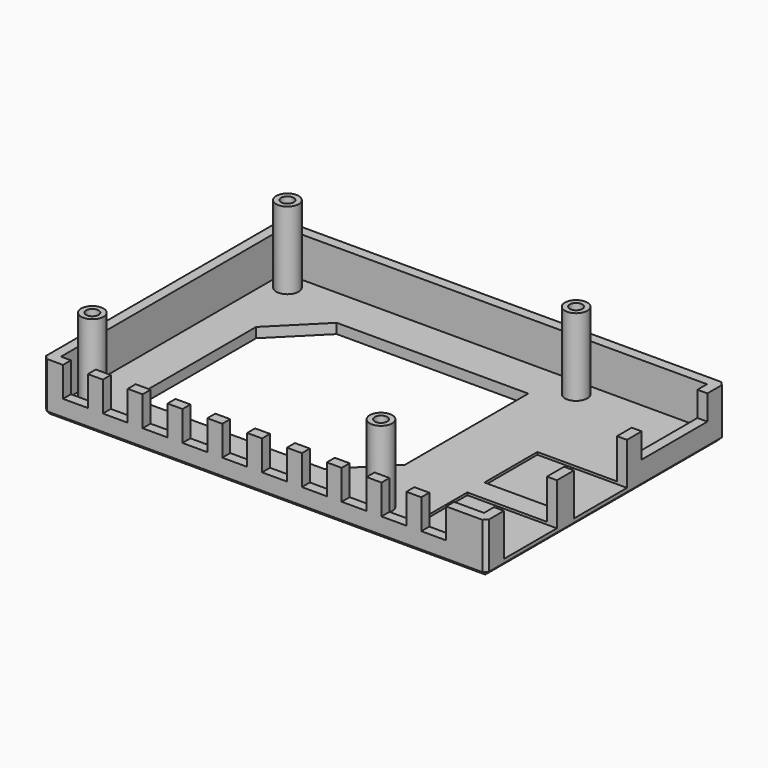
from build123d import *

# Parameters (mm, degrees)
F0_W      = 89
F0_H      = 60
F0_W_2    = 85
F0_H_2    = 56
F1_DEPTH  = 10
F2_DEPTH  = 2
F3_W      = 13.3
F3_H      = 8.5
F3_W_2    = 16.5
F3_H_2    = 5
F4_DEPTH  = 18
F5_SIZE   = 0.75
F6_R      = 2.25
F6_R_2    = 1.25
F7_DEPTH  = 17.5
F8_DEPTH  = 13.5
F9_W      = 47.5
F9_H      = 40
F10_DEPTH = 25
F11_SIZE  = 9
F12_W     = 5
F12_H     = 6
F13_DEPTH = 2


with BuildPart() as f1:
    # F0 (on Top) → F1 (new body)
    with BuildSketch(Plane.XY):
        Rectangle(F0_W, F0_H)
        Rectangle(F0_W_2, F0_H_2, mode=Mode.SUBTRACT)
    extrude(amount=F1_DEPTH)

    # F0 (on Top) → F2 (join)
    with BuildSketch(Plane.XY):
        Rectangle(F0_W_2, F0_H_2)
    extrude(amount=F2_DEPTH)

    # F3 (on face) → F4 (cut)
    with BuildSketch(Plane.YZ.offset(44.5)):
        with Locations((-18.85, 5.75)):
            Rectangle(F3_W, F3_H)
        with Locations((-1.25, 5.75)):
            Rectangle(F3_W, F3_H)
        with Locations((17.35, 7.5)):
            Rectangle(F3_W_2, F3_H_2)
    extrude(amount=-F4_DEPTH, mode=Mode.SUBTRACT)

    # F5
    f5_edges = [f1.edges().sort_by_distance(p)[0] for p in [
        (44.5, 0, 0),
        (0, 30, 0),
        (-44.5, 0, 0),
        (0, -30, 0),
        (44.5, -30, 5),
        (-44.5, -30, 5),
        (-44.5, 30, 5),
        (44.5, 30, 5),
    ]]
    chamfer(f5_edges, length=F5_SIZE)

    # F6 (on face) → F7 (join)
    with BuildSketch(Plane.XY):
        with Locations((-39, -24.5)):
            Circle(F6_R)
        with Locations((-39, -24.5)):
            Circle(F6_R_2, mode=Mode.SUBTRACT)
        with Locations((19, -24.5)):
            Circle(F6_R)
        with Locations((19, -24.5)):
            Circle(F6_R_2, mode=Mode.SUBTRACT)
        with Locations((19, 24.5)):
            Circle(F6_R)
        with Locations((19, 24.5)):
            Circle(F6_R_2, mode=Mode.SUBTRACT)
        with Locations((-39, 24.5)):
            Circle(F6_R)
        with Locations((-39, 24.5)):
            Circle(F6_R_2, mode=Mode.SUBTRACT)
    extrude(amount=F7_DEPTH)

    # F8 (add): faces of the model
    f8_faces = [f1.faces().sort_by_distance(p)[0] for p in [
        (-39, 24.5, 2),
        (-39, -24.5, 2),
        (19, 24.5, 2),
        (19, -24.5, 2),
    ]]
    extrude(f8_faces, amount=F8_DEPTH)

    # F9 (on face) → F10 (cut)
    with BuildSketch(Plane.XY):
        with Locations((-10.75, 0)):
            Rectangle(F9_W, F9_H)
    extrude(amount=F10_DEPTH, mode=Mode.SUBTRACT)

    # F11
    f11_edges = [f1.edges().sort_by_distance(p)[0] for p in [
        (13, -20, 1),
        (-34.5, 20, 1),
    ]]
    chamfer(f11_edges, length=F11_SIZE)

    # F12 (on face) → F13 (cut)
    with BuildSketch(Plane.XZ.offset(30)):
        with Locations((34, 7)):
            Rectangle(F12_W, F12_H)
        with Locations((26, 7)):
            Rectangle(F12_W, F12_H)
        with Locations((18, 7)):
            Rectangle(F12_W, F12_H)
        with Locations((10, 7)):
            Rectangle(F12_W, F12_H)
        with Locations((2, 7)):
            Rectangle(F12_W, F12_H)
        with Locations((-6, 7)):
            Rectangle(F12_W, F12_H)
        with Locations((-14, 7)):
            Rectangle(F12_W, F12_H)
        with Locations((-22, 7)):
            Rectangle(F12_W, F12_H)
        with Locations((-30, 7)):
            Rectangle(F12_W, F12_H)
        with Locations((-38, 7)):
            Rectangle(F12_W, F12_H)
    extrude(amount=-F13_DEPTH, mode=Mode.SUBTRACT)


solid = f1.part
